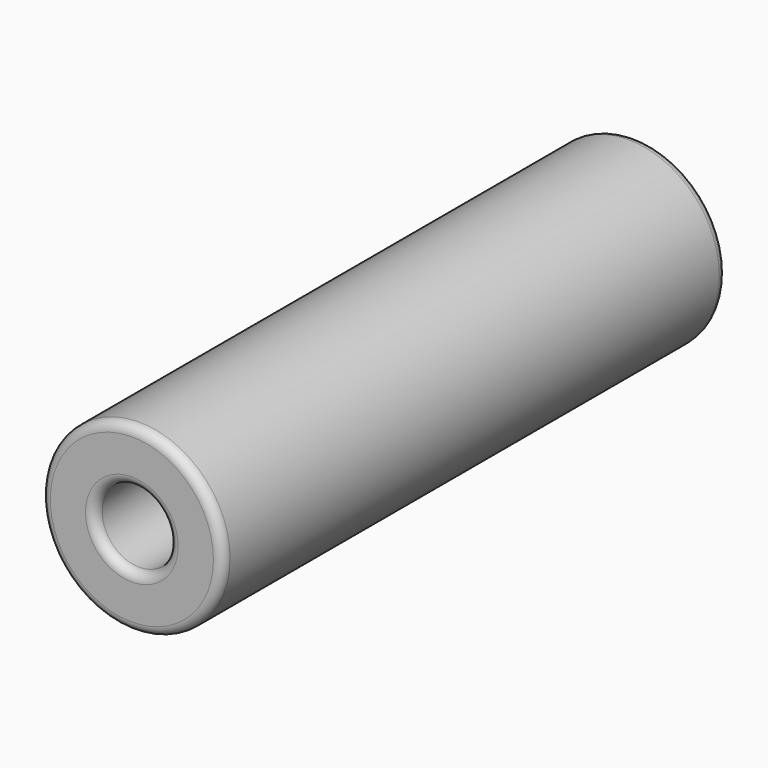
from build123d import *

# Parameters (mm, degrees)
FILLET_R = 1


with BuildPart() as part:
    # Sketch → Revolution (revolve)
    with BuildSketch(Plane.XY):
        Polygon((4, 68), (9.8, 68), (9.8, 0), (4, 0), (4, 10), (0, 10), (0, 58), (4, 58), align=None)
    revolve(axis=Axis((0, 0, 0), (0, 1, 0)))

    # Fillet
    fillet_edges = [part.edges().sort_by_distance(p)[0] for p in [
        (-4, 0, 0),
        (-9.8, 0, 0),
        (-9.8, 68, 0),
        (-4, 68, 0),
    ]]
    fillet(fillet_edges, radius=FILLET_R)


solid = part.part
